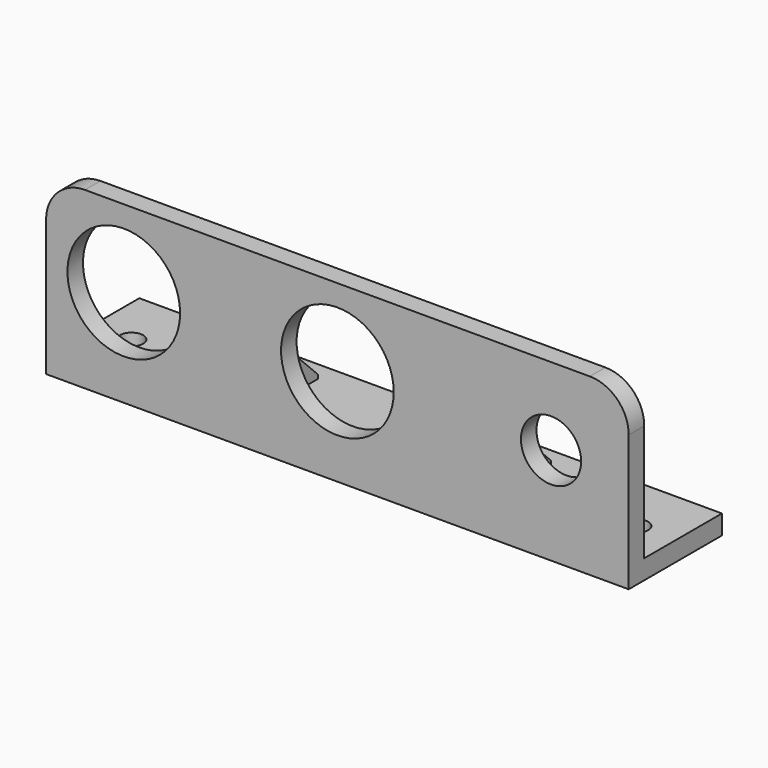
from build123d import *

# Parameters (mm, degrees)
SKETCH_W        = 150
SKETCH_H        = 30
PAD_DEPTH       = 5
SKETCH001_W     = 150
SKETCH001_H     = 5
PAD001_DEPTH    = 40
SKETCH002_R     = 14.5
SKETCH002_R_2   = 7.75
POCKET_DEPTH    = 30.001
FILLET_R        = 10
SKETCH003_W     = 10
SKETCH003_H     = 6
PAD002_DEPTH    = 3
SKETCH005_W     = 5
SKETCH005_H     = 20
PAD003_DEPTH    = 20
CHAMFER_SIZE    = 19
SKETCH006_R     = 3
POCKET001_DEPTH = 45.001


with BuildPart() as part:
    # Sketch → Pad (new body)
    with BuildSketch(Plane.XY):
        with Locations((75, 15)):
            Rectangle(SKETCH_W, SKETCH_H)
    extrude(amount=PAD_DEPTH)

    # Sketch001 (on Face6 of Pad) → Pad001 (join)
    with BuildSketch(Plane.XY.offset(5)):
        with Locations((75, 2.5)):
            Rectangle(SKETCH001_W, SKETCH001_H)
    extrude(amount=PAD001_DEPTH)

    # Sketch002 (on Face5 of Pad001) → Pocket (cut, through all)
    with BuildSketch(Plane.XZ):
        with Locations((20, 25)):
            Circle(SKETCH002_R)
        with Locations((75, 25)):
            Circle(SKETCH002_R)
        with Locations((130, 25)):
            Circle(SKETCH002_R_2)
    extrude(amount=-POCKET_DEPTH, mode=Mode.SUBTRACT)

    # Fillet
    fillet_edges = [part.edges().sort_by_distance(p)[0] for p in [
        (150, 2.5, 45),
        (0, 2.5, 45),
    ]]
    fillet(fillet_edges, radius=FILLET_R)

    # Sketch003 → Pad002 (join)
    with BuildSketch(Plane(origin=(0, 0, 0), x_dir=(1, 0, 0), z_dir=(0, 0, -1))):
        with Locations((35, -15)):
            Rectangle(SKETCH003_W, SKETCH003_H)
        with Locations((115, -15)):
            Rectangle(SKETCH003_W, SKETCH003_H)
    extrude(amount=PAD002_DEPTH)

    # Sketch005 → Pad003 (join)
    with BuildSketch(Plane.XY.offset(5)):
        with Locations((47.5, 15)):
            Rectangle(SKETCH005_W, SKETCH005_H)
        with Locations((107.5, 15)):
            Rectangle(SKETCH005_W, SKETCH005_H)
    extrude(amount=PAD003_DEPTH)

    # Chamfer
    chamfer_edges = [part.edges().sort_by_distance(p)[0] for p in [
        (107.5, 25, 25),
        (47.5, 25, 25),
    ]]
    chamfer(chamfer_edges, length=CHAMFER_SIZE)

    # Sketch006 (on Face23 of Chamfer) → Pocket001 (cut, through all)
    with BuildSketch(Plane(origin=(0, 0, 0), x_dir=(1, 0, 0), z_dir=(0, 0, -1))):
        with Locations((10, -15)):
            Circle(SKETCH006_R)
        with Locations((140, -15)):
            Circle(SKETCH006_R)
    extrude(amount=-POCKET001_DEPTH, mode=Mode.SUBTRACT)


solid = part.part
